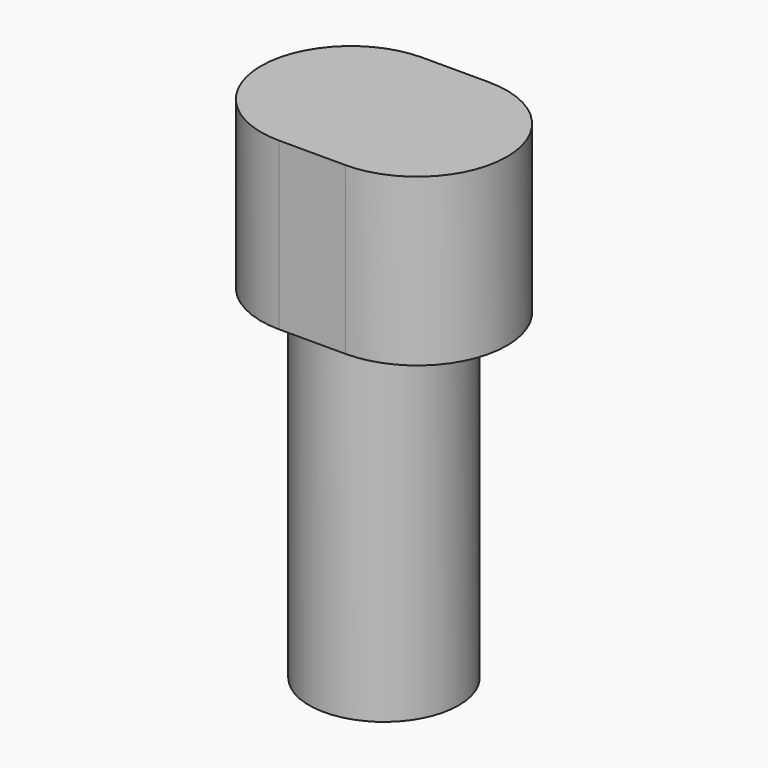
from build123d import *

# Parameters (mm, degrees)
F1_DEPTH = 5
F2_R     = 2.25
F3_DEPTH = 10


with BuildPart() as f1:
    # F0 (on Top) → F1 (new body)
    with BuildSketch(Plane.XY):
        with BuildLine():
            Line((1, 2.7), (-1, 2.7))
            ThreePointArc((-1, 2.7), (-3.7, 0), (-1, -2.7))
            Line((-1, -2.7), (1, -2.7))
            ThreePointArc((1, -2.7), (3.7, 0), (1, 2.7))
        make_face()
    extrude(amount=F1_DEPTH)

    # F2 (on face) → F3 (join)
    with BuildSketch(Plane(origin=(0, 0, 0), x_dir=(1, 0, 0), z_dir=(0, 0, -1))):
        Circle(F2_R)
    extrude(amount=F3_DEPTH)


solid = f1.part
